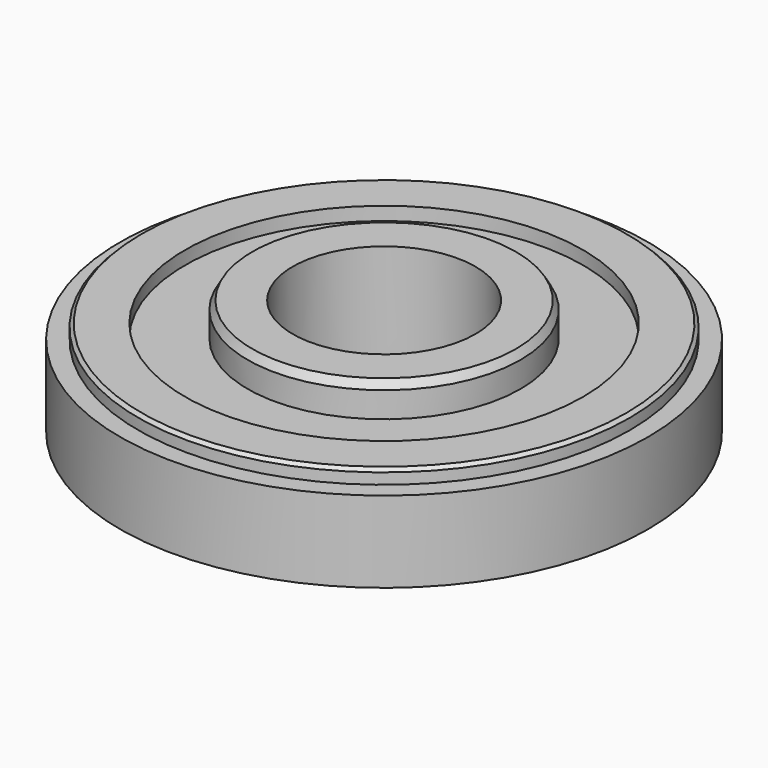
from build123d import *

# Parameters (mm, degrees)
F2_SIZE       = 0.81
F3_SIZE2      = 1.154701
F3_SIZE       = 2
F4_R          = 22.5
F5_DEPTH      = 50
F5_DEPTH_BACK = 16.8


with BuildPart() as f1:
    # F0 (on Front) → F1 (revolve)
    with BuildSketch(Plane.XZ):
        Polygon((0, 0), (0, -23.5), (65, -23.5), (65, -3.5), (60.5, -3.5), (60.5, 0), (49, 0), (49, -3.3), (33.6, -3.3), (33.6, 5), (0, 5), align=None)
    revolve(axis=Axis((0, 0, 20), (0, 0, 1)))

    # F2
    f2_edges = [f1.edges().sort_by_distance(p)[0] for p in [
        (-60.5, 0, 0),
    ]]
    chamfer(f2_edges, length=F2_SIZE)

    # F3
    f3_edges = [f1.edges().sort_by_distance(p)[0] for p in [
        (-33.6, 0, 5),
    ]]
    chamfer(f3_edges, length=F3_SIZE, length2=F3_SIZE2)


with BuildPart() as f5:
    # F4 (on face) → F5 (new body, two sides)
    with BuildSketch(Plane.XY.offset(5)) as f5_sk:
        Circle(F4_R)
    extrude(amount=-F5_DEPTH)
    extrude(f5_sk.sketch, amount=-F5_DEPTH_BACK)


with BuildPart() as f1_1:
    add(f1.part)

    # F6: cut F5
    add(f5.part, mode=Mode.SUBTRACT)


solid = f1_1.part
